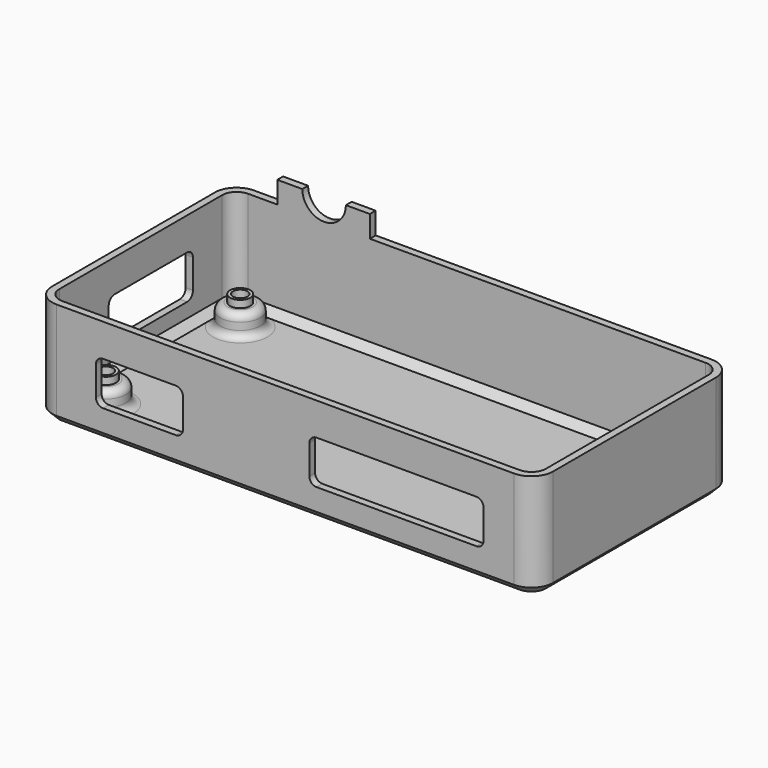
from build123d import *

# Parameters (mm, degrees)
PAD004_DEPTH    = 14.5
THICKNESS_T     = -1
SKETCH008_R     = 1.4
PAD005_DEPTH    = 5
SKETCH010_R     = 2.75
PAD006_DEPTH    = 3
POCKET001_DEPTH = 6
CHAMFER_SIZE    = 1
CHAMFER001_SIZE = 1
SKETCH011_R     = 1
POCKET002_DEPTH = 5
SKETCH012_R     = 2
POCKET003_DEPTH = 2.5
FILLET_R        = 1
FILLET001_R     = 1
SKETCH015_W     = 12.75
SKETCH015_H     = 1
PAD007_DEPTH    = 6
POCKET004_DEPTH = 5


with BuildPart() as part:
    # Sketch006 → Pad004 (new body)
    with BuildSketch(Plane.XY):
        with BuildLine():
            Line((0, 17), (-31.5, 17))
            ThreePointArc((-31.5, 17), (-33.62132, 16.12132), (-34.5, 14))
            Line((-34.5, 14), (-34.5, 0))
            Line((-34.5, -14), (-34.5, 0))
            ThreePointArc((-34.5, -14), (-33.62132, -16.12132), (-31.5, -17))
            Line((0, -17), (-31.5, -17))
            Line((0, -17), (31.5, -17))
            ThreePointArc((31.5, -17), (33.62132, -16.12132), (34.5, -14))
            Line((34.5, -14), (34.5, 0))
            Line((34.5, 14), (34.5, 0))
            ThreePointArc((34.5, 14), (33.62132, 16.12132), (31.5, 17))
            Line((0, 17), (31.5, 17))
        make_face()
    extrude(amount=PAD004_DEPTH)

    # Thickness
    thickness_openings = [part.faces().sort_by_distance(p)[0] for p in [
        (0, 0, 14.5),
    ]]
    offset(amount=THICKNESS_T, openings=thickness_openings, kind=Kind.INTERSECTION)

    # Sketch008 → Pad005 (join)
    with BuildSketch(Plane.XY):
        with Locations((-29, 11.5)):
            Circle(SKETCH008_R)
        with Locations((29, 11.5)):
            Circle(SKETCH008_R)
        with Locations((-29.1, -11.5)):
            Circle(SKETCH008_R)
        with Locations((29, -11.5)):
            Circle(SKETCH008_R)
    extrude(amount=PAD005_DEPTH)

    # Sketch010 → Pad006 (join)
    with BuildSketch(Plane.XY.offset(4)):
        with Locations((-29, 11.5)):
            Circle(SKETCH010_R)
        with Locations((-29.1, -11.5)):
            Circle(SKETCH010_R)
        with Locations((29, 11.5)):
            Circle(SKETCH010_R)
        with Locations((29, -11.5)):
            Circle(SKETCH010_R)
    extrude(amount=-PAD006_DEPTH)

    # Sketch009 (on Face5 of Pad005) → Pocket001 (cut)
    with BuildSketch(Plane.XY.offset(4)):
        Polygon((-31.814152, 8.985149), (-38.665916, 8.985149), (-38.665916, -23.795828), (27.314304, -23.795828), (27.314304, -14.39145), (3.314304, -14.39145), (3.314304, -18.037922), (-14.085696, -18.037922), (-14.085696, -14.39145), (-26.085696, -14.39145), (-26.085696, -18.037922), (-36.363327, -18.037922), (-36.363327, -5.514851), (-31.814152, -5.514851), align=None)
    extrude(amount=POCKET001_DEPTH, mode=Mode.SUBTRACT)

    # Chamfer
    chamfer_edges = [part.edges().sort_by_distance(p)[0] for p in [
        (15.75, -17, 0),
    ]]
    chamfer(chamfer_edges, length=CHAMFER_SIZE)

    # Chamfer001
    chamfer001_edges = [part.edges().sort_by_distance(p)[0] for p in [
        (15.75, -16, 1),
    ]]
    chamfer(chamfer001_edges, length=CHAMFER001_SIZE)

    # Sketch011 (on Face71 of Chamfer001) → Pocket002 (cut)
    with BuildSketch(Plane(origin=(0, 0, 0), x_dir=(1, 0, 0), z_dir=(0, 0, -1))):
        with Locations((-29.1, 11.5)):
            Circle(SKETCH011_R)
        with Locations((29, 11.5)):
            Circle(SKETCH011_R)
        with Locations((29, -11.5)):
            Circle(SKETCH011_R)
        with Locations((-29, -11.5)):
            Circle(SKETCH011_R)
    extrude(amount=-POCKET002_DEPTH, mode=Mode.SUBTRACT)

    # Sketch012 (on Face71 of Pocket002) → Pocket003 (cut)
    with BuildSketch(Plane(origin=(0, 0, 0), x_dir=(1, 0, 0), z_dir=(0, 0, -1))):
        with Locations((-29.1, 11.5)):
            Circle(SKETCH012_R)
        with Locations((29, 11.5)):
            Circle(SKETCH012_R)
        with Locations((29, -11.5)):
            Circle(SKETCH012_R)
        with Locations((-29, -11.5)):
            Circle(SKETCH012_R)
    extrude(amount=-POCKET003_DEPTH, mode=Mode.SUBTRACT)

    # Fillet
    fillet_edges = [part.edges().sort_by_distance(p)[0] for p in [
        (-26.085696, -16.5, 4),
        (-14.085696, -16.5, 4),
        (27.314304, -16.5, 4),
        (3.314304, -16.5, 4),
        (-34, -5.514851, 4),
        (-34, 8.985149, 4),
        (-26.085696, -16.5, 10),
        (3.314304, -16.5, 10),
        (27.314304, -16.5, 10),
        (-14.085696, -16.5, 10),
        (-34, -5.514851, 10),
        (-34, 8.985149, 10),
    ]]
    fillet(fillet_edges, radius=FILLET_R)

    # Fillet001
    fillet001_edges = [part.edges().sort_by_distance(p)[0] for p in [
        (-26.25, 11.5, 2.5),
        (-31.75, 11.5, 4),
        (-31.75, 11.5, 1),
        (31.75, 11.5, 2.5),
        (26.25, 11.5, 4),
        (26.25, 11.5, 1),
        (31.75, -11.5, 2.5),
        (26.25, -11.5, 4),
        (26.25, -11.5, 1),
        (-26.35, -11.5, 2.5),
        (-31.85, -11.5, 4),
        (-31.85, -11.5, 1),
    ]]
    fillet(fillet001_edges, radius=FILLET001_R)

    # Sketch015 (on Face10 of Fillet) → Pad007 (join)
    with BuildSketch(Plane.XY.offset(14.5)):
        with Locations((-21.125, 16.5)):
            Rectangle(SKETCH015_W, SKETCH015_H)
    extrude(amount=PAD007_DEPTH)

    # Sketch016 → Pocket004 (cut)
    with BuildSketch(Plane(origin=(0, 17, 0), x_dir=(-1, 0, 0), z_dir=(0, 1, 0))):
        with BuildLine():
            ThreePointArc((18.054143, 17.5), (21.052072, 14.502071), (24.050001, 17.5))
            Line((24.050001, 17.5), (30.455944, 17.5))
            Line((30.455944, 22.161654), (30.455944, 17.5))
            Line((12.737233, 22.161654), (30.455944, 22.161654))
            Line((12.737233, 17.5), (12.737233, 22.161654))
            Line((18.054143, 17.5), (12.737233, 17.5))
        make_face()
    extrude(amount=-POCKET004_DEPTH, mode=Mode.SUBTRACT)


solid = part.part
